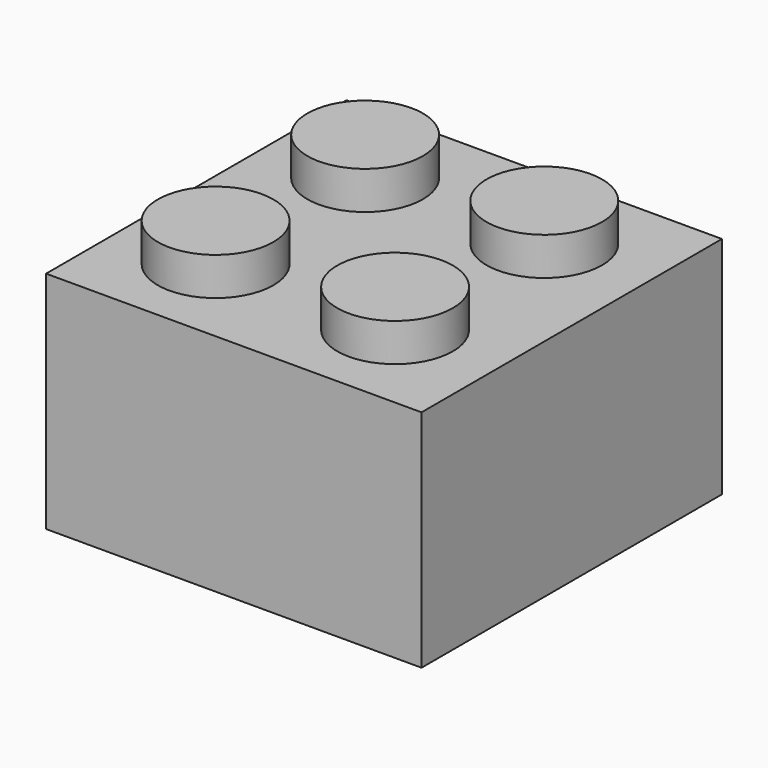
from build123d import *

# Parameters (mm, degrees)
F0_W      = 15.9258
F0_H      = 15.9258
F1_DEPTH  = 9.5377
F2_R      = 2.4511
F3_DEPTH  = 1.6129
F4_DEPTH  = 1.6129
F5_DEPTH  = 1.6129
F6_DEPTH  = 1.6129
F7_R      = 3.18135
F8_DEPTH  = 6.5151
F9_W      = 14.6685
F9_H      = 14.6812
F10_DEPTH = 8.128
F11_R     = 3.20421
F12_DEPTH = 6.858
F13_R     = 2.4638
F14_DEPTH = 6.858
F16_R     = 3.1877
F17_DEPTH = 8.128
F18_R     = 2.4003
F19_DEPTH = 8.128


with BuildPart() as f1:
    # F0 (on Top) → F1 (new body)
    with BuildSketch(Plane.XY):
        with Locations((-3.588486, -0.815087)):
            Rectangle(F0_W, F0_H)
    extrude(amount=F1_DEPTH)

    # F2 (on face) → F3 (join)
    with BuildSketch(Plane.XY.offset(9.5377)):
        with Locations((-7.601686, -4.726677)):
            Circle(F2_R)
    extrude(amount=F3_DEPTH)

    # F2 (on face) → F4 (join)
    with BuildSketch(Plane.XY.offset(9.5377)):
        with Locations((0, -4.713987)):
            Circle(F2_R)
    extrude(amount=F4_DEPTH)

    # F2 (on face) → F5 (join)
    with BuildSketch(Plane.XY.offset(9.5377)):
        with Locations((-7.588986, 3.185413)):
            Circle(F2_R)
    extrude(amount=F5_DEPTH)

    # F2 (on face) → F6 (join)
    with BuildSketch(Plane.XY.offset(9.5377)):
        with Locations((0, 3.198113)):
            Circle(F2_R)
    extrude(amount=F6_DEPTH)

    # F7 (on face) → F8 (cut)
    with BuildSketch(Plane(origin=(0, 0, 0), x_dir=(1, 0, 0), z_dir=(0, 0, -1))):
        with Locations((-3.505936, 0.897213)):
            Circle(F7_R)
    extrude(amount=-F8_DEPTH, mode=Mode.SUBTRACT)

    # F9 (on face) → F10 (cut)
    with BuildSketch(Plane.XY):
        with Locations((-3.463184, -1.051433)):
            Rectangle(F9_W, F9_H)
    extrude(amount=F10_DEPTH, mode=Mode.SUBTRACT)

    # F16 (on face) → F17 (join)
    with BuildSketch(Plane(origin=(0, 0, 8.128), x_dir=(1, 0, 0), z_dir=(0, 0, -1))):
        with Locations((-3.431434, 1.548832)):
            Circle(F16_R)
    extrude(amount=F17_DEPTH)

    # F18 (on face) → F19 (cut)
    with BuildSketch(Plane(origin=(0, 0, 0), x_dir=(1, 0, 0), z_dir=(0, 0, -1))):
        with Locations((-3.454812, 1.558765)):
            Circle(F18_R)
    extrude(amount=-F19_DEPTH, mode=Mode.SUBTRACT)


with BuildPart() as f12:
    # F11 (on Top) → F12 (new body)
    with BuildSketch(Plane.XY):
        with Locations((-3.520086, -0.851917)):
            Circle(F11_R)
    extrude(amount=F12_DEPTH)

    # F13 (on face) → F14 (cut)
    with BuildSketch(Plane(origin=(0, 0, 0), x_dir=(1, 0, 0), z_dir=(0, 0, -1))):
        with Locations((-3.526228, 0.831219)):
            Circle(F13_R)
    extrude(amount=-F14_DEPTH, mode=Mode.SUBTRACT)


solid = f1.part
